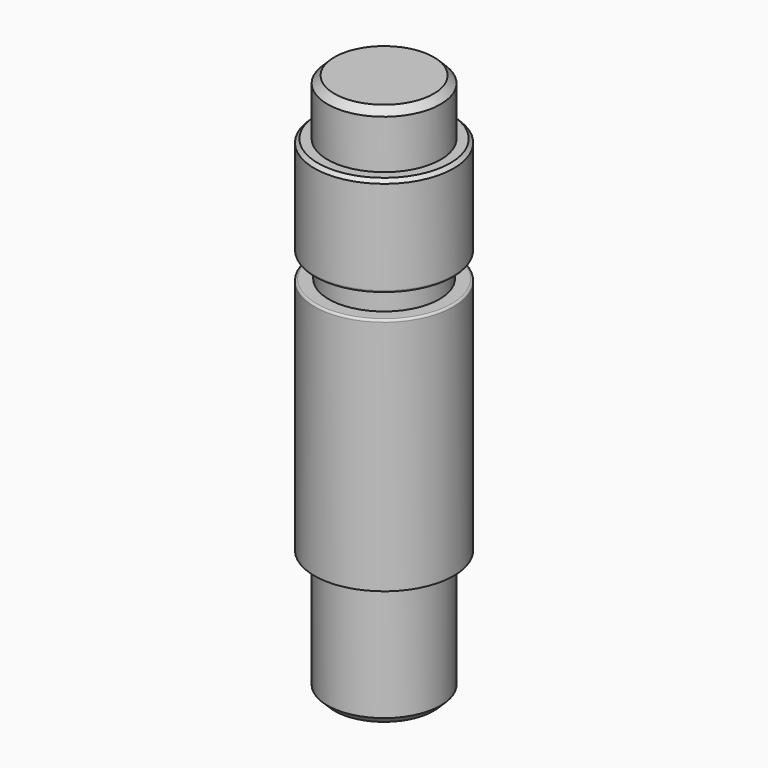
from build123d import *

# Parameters (mm, degrees)
F0_R      = 8.125
F1_DEPTH  = 18
F2_SIZE   = 1
F3_R      = 10
F4_DEPTH  = 34.3
F5_R      = 7.95
F6_DEPTH  = 3.4
F8_R      = 10
F9_DEPTH  = 14.3
F10_R     = 8.125
F11_DEPTH = 8
F12_SIZE  = 1
F13_SIZE  = 0.5
F14_R     = 0.3


with BuildPart() as f1:
    # F0 (on Top) → F1 (new body)
    with BuildSketch(Plane.XY):
        Circle(F0_R)
    extrude(amount=F1_DEPTH)

    # F2
    f2_edges = [f1.edges().sort_by_distance(p)[0] for p in [
        (-8.125, 0, 0),
    ]]
    chamfer(f2_edges, length=F2_SIZE)

    # F3 (on face) → F4 (join)
    with BuildSketch(Plane.XY.offset(18)):
        Circle(F3_R)
    extrude(amount=F4_DEPTH)

    # F5 (on face) → F6 (join)
    with BuildSketch(Plane.XY.offset(52.3)):
        Circle(F5_R)
    extrude(amount=F6_DEPTH)

    # F8 (on face) → F9 (join)
    with BuildSketch(Plane.XY.offset(55.7)):
        Circle(F8_R)
    extrude(amount=F9_DEPTH)

    # F10 (on face) → F11 (join)
    with BuildSketch(Plane.XY.offset(70)):
        Circle(F10_R)
    extrude(amount=F11_DEPTH)

    # F12
    f12_edges = [f1.edges().sort_by_distance(p)[0] for p in [
        (-8.125, 0, 78),
    ]]
    chamfer(f12_edges, length=F12_SIZE)

    # F13
    f13_edges = [f1.edges().sort_by_distance(p)[0] for p in [
        (-10, 0, 70),
    ]]
    chamfer(f13_edges, length=F13_SIZE)

    # F14
    f14_edges = [f1.edges().sort_by_distance(p)[0] for p in [
        (-10, 0, 55.7),
        (-10, 0, 52.3),
    ]]
    fillet(f14_edges, radius=F14_R)


solid = f1.part
